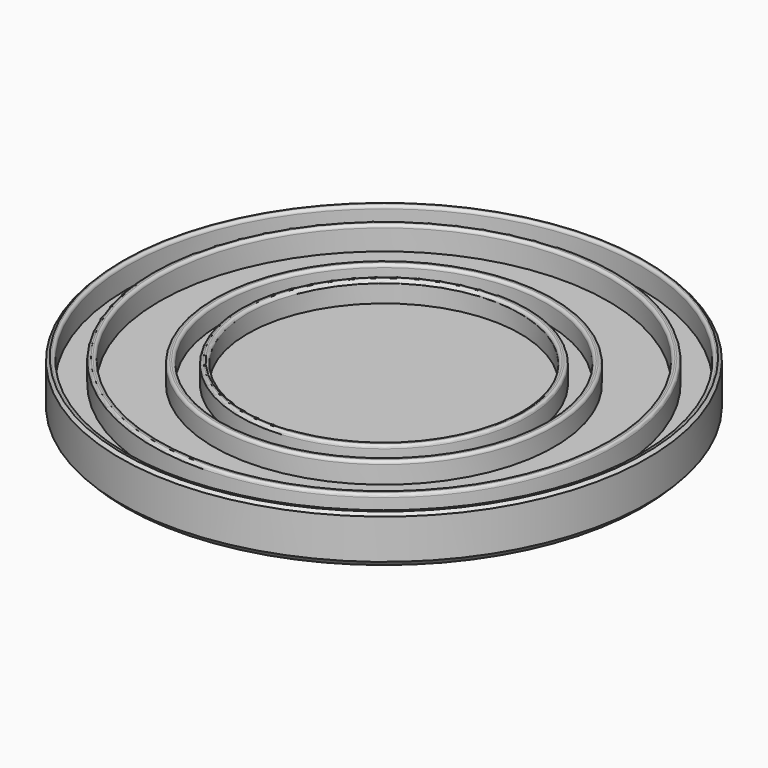
from build123d import *

# Parameters (mm, degrees)
F2_SIZE = 1
F3_R    = 1
F4_SIZE = 2


with BuildPart() as f1:
    # F0 (on Front) → F1 (revolve)
    with BuildSketch(Plane.XZ):
        Polygon((-51.6306617908, -9.7883217931), (-51.6306617908, -13.2883217931), (-51.6306617908, -18.2883217931), (-49.1306617908, -18.2883217931), (-49.2086128494, -13.2886256161), (37.7913871506, -13.2886256161), (37.7913871506, -9.7886256161), (-8.4086128494, -9.7886256161), (-8.4086128494, -2.7886256161), (-10.9086128494, -2.7886256161), (-10.9086128494, -9.7886256161), (-17.4086128494, -9.7886256161), (-17.4086128494, -2.7886256161), (-19.9086128494, -2.7886256161), (-19.9086128494, -9.7886256161), (-38.2086128494, -9.7886256161), (-38.2086128494, -1.7886256161), (-40.7086128494, -1.7886256161), (-40.7086128494, -9.7886256161), (-49.2086128494, -9.7886256161), (-49.1306617908, -1.7883217931), (-51.6306617908, -1.7883217931), align=None)
    revolve(axis=Axis((37.7913871506, 0, -11.5386256161), (0, 0, 1)))

    # F2
    f2_edges = [f1.edges().sort_by_distance(p)[0] for p in [
        (127.213436, 0, -1.788322),
    ]]
    chamfer(f2_edges, length=F2_SIZE)

    # F3
    f3_edges = [f1.edges().sort_by_distance(p)[0] for p in [
        (124.713436, 0, -1.788322),
        (113.791387, 0, -1.788626),
        (116.291387, 0, -1.788626),
        (95.491387, 0, -2.788626),
        (86.491387, 0, -2.788626),
        (83.991387, 0, -2.788626),
        (92.991387, 0, -2.788626),
    ]]
    fillet(f3_edges, radius=F3_R)

    # F4
    f4_edges = [f1.edges().sort_by_distance(p)[0] for p in [
        (127.213436, 0, -18.288322),
    ]]
    chamfer(f4_edges, length=F4_SIZE)


solid = f1.part
